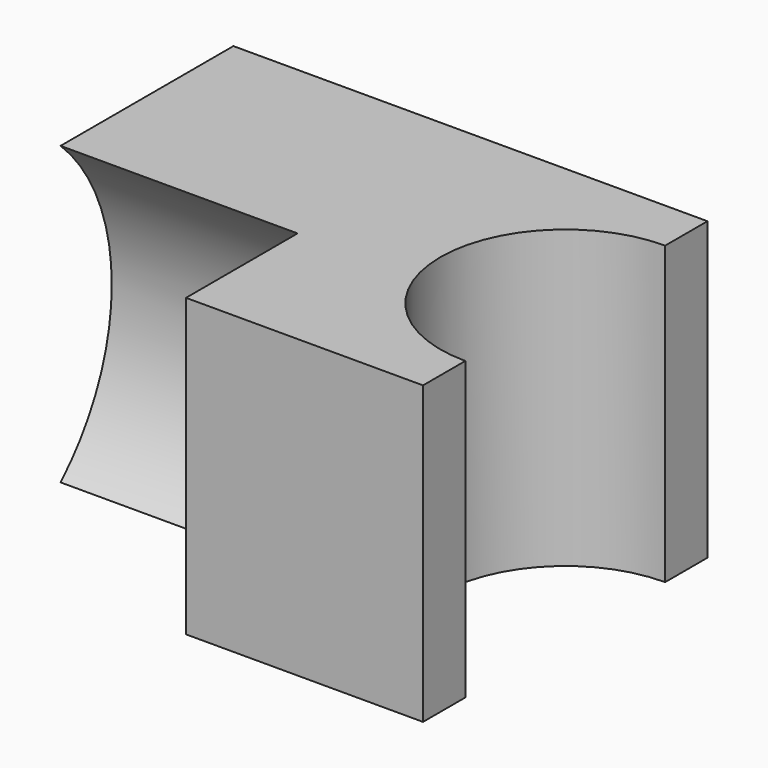
from build123d import *

# Parameters (mm, degrees)
F0_W     = 101.6
F0_H     = 76.2
F1_DEPTH = 63.5
F3_DEPTH = 63.501
F5_DEPTH = 50.8


with BuildPart() as f1:
    # F0 (on Top) → F1 (new body)
    with BuildSketch(Plane.XY):
        with Locations((0.976678, -11.506712)):
            Rectangle(F0_W, F0_H)
    extrude(amount=F1_DEPTH)

    # F2 (on face) → F3 (cut, through all)
    with BuildSketch(Plane.XY.offset(63.5)):
        with BuildLine():
            Line((51.776678, -38.273564), (51.776678, 15.26014))
            ThreePointArc((51.776678, 15.26014), (25.009826, -11.506712), (51.776678, -38.273564))
        make_face()
        with BuildLine():
            ThreePointArc((51.776678, -38.273564), (70.7037, -30.433734), (78.54353, -11.506712))
            ThreePointArc((78.54353, -11.506712), (70.7037, 7.420311), (51.776678, 15.26014))
            Line((51.776678, 15.26014), (51.776678, -38.273564))
        make_face()
    extrude(amount=-F3_DEPTH, mode=Mode.SUBTRACT)

    # F4 (on face) → F5 (cut)
    with BuildSketch(Plane(origin=(-49.823322, 0, 0), x_dir=(0, -1, 0), z_dir=(-1, 0, 0))):
        with BuildLine():
            Line((49.606712, 63.5), (19.711442, 63.5))
            ThreePointArc((19.711442, 63.5), (5.997199, 31.75), (19.711442, 0))
            Line((19.711442, 0), (49.606712, 0))
            Line((49.606712, 0), (49.606712, 63.5))
        make_face()
        with BuildLine():
            ThreePointArc((19.711442, 0), (66.899362, -8.284409), (93.216225, 31.75))
            ThreePointArc((93.216225, 31.75), (66.899362, 71.784409), (19.711442, 63.5))
            Line((19.711442, 63.5), (49.606712, 63.5))
            Line((49.606712, 63.5), (49.606712, 0))
            Line((49.606712, 0), (19.711442, 0))
        make_face()
    extrude(amount=-F5_DEPTH, mode=Mode.SUBTRACT)


solid = f1.part
